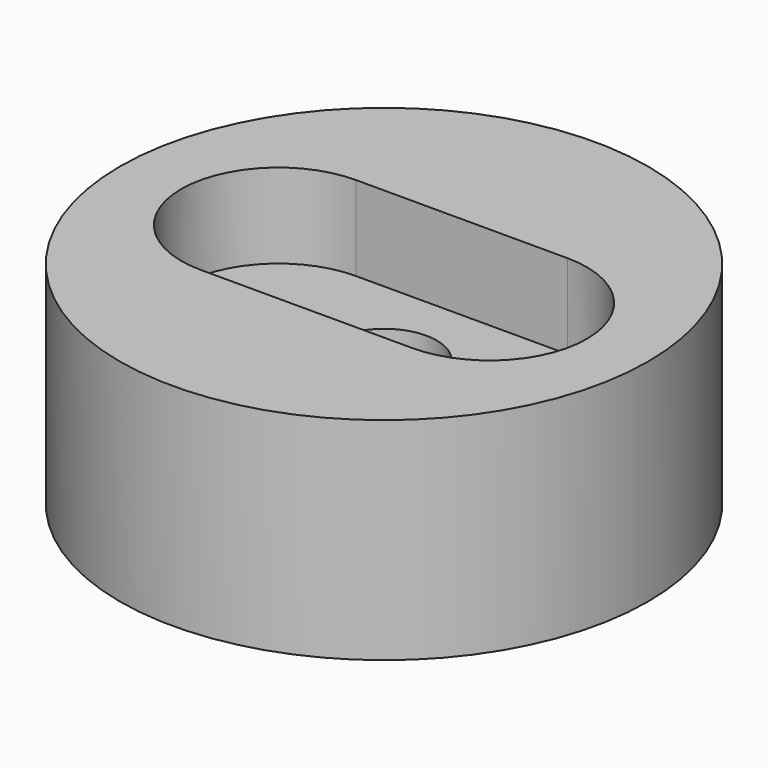
from build123d import *

# Parameters (mm, degrees)
F0_R     = 15.875
F1_DEPTH = 12.7
F2_R     = 3.175
F3_DEPTH = 12.7
F5_DEPTH = 5.08


with BuildPart() as f1:
    # F0 (on Top) → F1 (new body)
    with BuildSketch(Plane.XY):
        Circle(F0_R)
    extrude(amount=F1_DEPTH)

    # F2 (on face) → F3 (cut, through all)
    with BuildSketch(Plane.XY.offset(12.7)):
        Circle(F2_R)
    extrude(amount=-F3_DEPTH, mode=Mode.SUBTRACT)

    # F4 (on face) → F5 (cut)
    with BuildSketch(Plane.XY.offset(12.7)):
        with BuildLine():
            Line((6.35, 5.842), (-6.35, 5.842))
            ThreePointArc((-6.35, 5.842), (-12.192, 0), (-6.35, -5.842))
            Line((-6.35, -5.842), (6.35, -5.842))
            ThreePointArc((6.35, -5.842), (12.192, 0), (6.35, 5.842))
        make_face()
    extrude(amount=-F5_DEPTH, mode=Mode.SUBTRACT)


solid = f1.part
